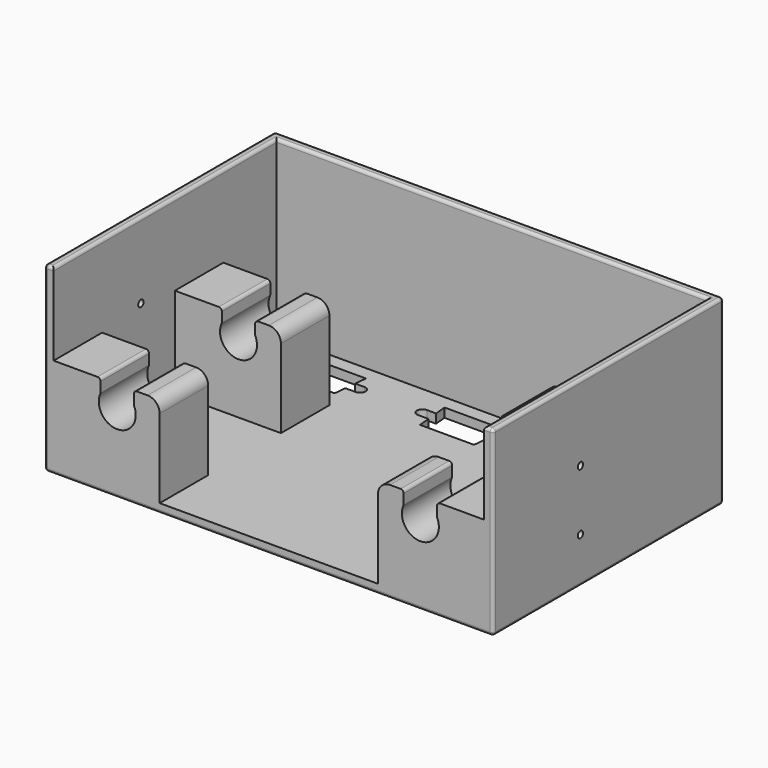
from build123d import *

# Parameters (mm, degrees)
CYLINDER009_R      = 1.1
CYLINDER009_DEPTH  = 150
CYLINDER008_R      = 1.1
CYLINDER008_DEPTH  = 150
BOX011_W           = 25.4
BOX011_H           = 3.6
BOX011_DEPTH       = 10
CYLINDER005_R      = 1.8
CYLINDER005_DEPTH  = 10
CYLINDER004_R      = 1.8
CYLINDER004_DEPTH  = 10
BOX010_W           = 20
BOX010_H           = 11.5
BOX010_DEPTH       = 10
CHAMFER001_1_SIZE2 = 1.1
CHAMFER001_1_SIZE  = 11
CHAMFER001_2_SIZE2 = 1.1
CHAMFER001_2_SIZE  = 11
BOX013_W           = 25.4
BOX013_H           = 3.6
BOX013_DEPTH       = 10
CYLINDER006_R      = 1.8
CYLINDER006_DEPTH  = 10
CYLINDER007_R      = 1.8
CYLINDER007_DEPTH  = 10
BOX012_W           = 20
BOX012_H           = 11.5
BOX012_DEPTH       = 10
CHAMFER002_1_SIZE2 = 1.1
CHAMFER002_1_SIZE  = 11
CHAMFER002_2_SIZE2 = 1.1
CHAMFER002_2_SIZE  = 11
CYLINDER003_R      = 1.8
CYLINDER003_DEPTH  = 10
BOX009_W           = 33.6
BOX009_H           = 3.6
BOX009_DEPTH       = 10
CYLINDER002_R      = 1.8
CYLINDER002_DEPTH  = 10
BOX008_W           = 28
BOX008_H           = 11.5
BOX008_DEPTH       = 10
CHAMFER_1_SIZE2    = 1.2
CHAMFER_1_SIZE     = 11
CHAMFER_2_SIZE2    = 1.2
CHAMFER_2_SIZE     = 11
BOX006_W           = 11
BOX006_H           = 73
BOX006_DEPTH       = 15
BOX007_W           = 11
BOX007_H           = 73
BOX007_DEPTH       = 15
CYLINDER001_R      = 6.1
CYLINDER001_DEPTH  = 80
CYLINDER_R         = 6.1
CYLINDER_DEPTH     = 80
BOX002_W           = 35
BOX002_H           = 20
BOX002_DEPTH       = 30
BOX003_W           = 35
BOX003_H           = 20
BOX003_DEPTH       = 30
BOX004_W           = 35
BOX004_H           = 20
BOX004_DEPTH       = 30
BOX005_W           = 35
BOX005_H           = 20
BOX005_DEPTH       = 30
BOX001_W           = 142
BOX001_H           = 92
BOX001_DEPTH       = 60
BOX_W              = 148
BOX_H              = 95
BOX_DEPTH          = 60
FILLET_R           = 1
FILLET001_R        = 4
FILLET002_R        = 1


with BuildPart() as cylinder009:
    # Cylinder009 → Cylinder009 (new body)
    with BuildSketch(Plane(origin=(-1, 36, 35), x_dir=(0, 0, -1), z_dir=(1, 0, 0))):
        Circle(CYLINDER009_R)
    extrude(amount=CYLINDER009_DEPTH)


with BuildPart() as cylinder008:
    # Cylinder008 → Cylinder008 (new body)
    with BuildSketch(Plane(origin=(-1, 36, 15), x_dir=(0, 0, -1), z_dir=(1, 0, 0))):
        Circle(CYLINDER008_R)
    extrude(amount=CYLINDER008_DEPTH)


with BuildPart() as cube011:
    # Box011 → Box011 (new body)
    with BuildSketch(Plane(origin=(-2.7, 3.95, 0), x_dir=(1, 0, 0), z_dir=(0, 0, 1))):
        with Locations((12.7, 1.8)):
            Rectangle(BOX011_W, BOX011_H)
    extrude(amount=BOX011_DEPTH)


with BuildPart() as cylinder005:
    # Cylinder005 → Cylinder005 (new body)
    with BuildSketch(Plane(origin=(22.7, 5.75, 0), x_dir=(1, 0, 0), z_dir=(0, 0, 1))):
        Circle(CYLINDER005_R)
    extrude(amount=CYLINDER005_DEPTH)


with BuildPart() as cylinder004:
    # Cylinder004 → Cylinder004 (new body)
    with BuildSketch(Plane(origin=(-2.7, 5.75, 0), x_dir=(1, 0, 0), z_dir=(0, 0, 1))):
        Circle(CYLINDER004_R)
    extrude(amount=CYLINDER004_DEPTH)


with BuildPart() as obj1:
    # Box010 → Box010 (new body)
    with BuildSketch(Plane.XY):
        with Locations((10, 5.75)):
            Rectangle(BOX010_W, BOX010_H)
    extrude(amount=BOX010_DEPTH)

    # Chamfer001 1
    chamfer001_1_edges = [obj1.edges().sort_by_distance(p)[0] for p in [
        (20, 0, 5),
    ]]
    chamfer001_1_side = obj1.faces().sort_by_distance((20, 5.75, 5))[0]
    chamfer(chamfer001_1_edges, length=CHAMFER001_1_SIZE, length2=CHAMFER001_1_SIZE2, reference=chamfer001_1_side)

    # Chamfer001 2
    chamfer001_2_edges = [obj1.edges().sort_by_distance(p)[0] for p in [
        (0, 0, 5),
    ]]
    chamfer001_2_side = obj1.faces().sort_by_distance((0, 5.75, 5))[0]
    chamfer(chamfer001_2_edges, length=CHAMFER001_2_SIZE, length2=CHAMFER001_2_SIZE2, reference=chamfer001_2_side)

    # Fusion002: union Cube011, Cylinder005, Cylinder004
    add(cube011.part)
    add(cylinder005.part)
    add(cylinder004.part)


with BuildPart() as obj1_1:
    # Fusion002 placement: moved
    add(obj1.part.moved(Location((16, 76, 0))))


with BuildPart() as cube013:
    # Box013 → Box013 (new body)
    with BuildSketch(Plane(origin=(-2.7, 3.95, 0), x_dir=(1, 0, 0), z_dir=(0, 0, 1))):
        with Locations((12.7, 1.8)):
            Rectangle(BOX013_W, BOX013_H)
    extrude(amount=BOX013_DEPTH)


with BuildPart() as cylinder006:
    # Cylinder006 → Cylinder006 (new body)
    with BuildSketch(Plane(origin=(22.7, 5.75, 0), x_dir=(1, 0, 0), z_dir=(0, 0, 1))):
        Circle(CYLINDER006_R)
    extrude(amount=CYLINDER006_DEPTH)


with BuildPart() as cylinder007:
    # Cylinder007 → Cylinder007 (new body)
    with BuildSketch(Plane(origin=(-2.7, 5.75, 0), x_dir=(1, 0, 0), z_dir=(0, 0, 1))):
        Circle(CYLINDER007_R)
    extrude(amount=CYLINDER007_DEPTH)


with BuildPart() as obj2:
    # Box012 → Box012 (new body)
    with BuildSketch(Plane.XY):
        with Locations((10, 5.75)):
            Rectangle(BOX012_W, BOX012_H)
    extrude(amount=BOX012_DEPTH)

    # Chamfer002 1
    chamfer002_1_edges = [obj2.edges().sort_by_distance(p)[0] for p in [
        (20, 0, 5),
    ]]
    chamfer002_1_side = obj2.faces().sort_by_distance((20, 5.75, 5))[0]
    chamfer(chamfer002_1_edges, length=CHAMFER002_1_SIZE, length2=CHAMFER002_1_SIZE2, reference=chamfer002_1_side)

    # Chamfer002 2
    chamfer002_2_edges = [obj2.edges().sort_by_distance(p)[0] for p in [
        (0, 0, 5),
    ]]
    chamfer002_2_side = obj2.faces().sort_by_distance((0, 5.75, 5))[0]
    chamfer(chamfer002_2_edges, length=CHAMFER002_2_SIZE, length2=CHAMFER002_2_SIZE2, reference=chamfer002_2_side)

    # Fusion003: union Cube013, Cylinder006, Cylinder007
    add(cube013.part)
    add(cylinder006.part)
    add(cylinder007.part)


with BuildPart() as obj2_1:
    # Fusion003 placement: moved
    add(obj2.part.moved(Location((62, 76, 0))))


with BuildPart() as cylinder003:
    # Cylinder003 → Cylinder003 (new body)
    with BuildSketch(Plane(origin=(30.8, 5.75, 0), x_dir=(1, 0, 0), z_dir=(0, 0, 1))):
        Circle(CYLINDER003_R)
    extrude(amount=CYLINDER003_DEPTH)


with BuildPart() as cube009:
    # Box009 → Box009 (new body)
    with BuildSketch(Plane(origin=(-2.8, 3.95, 0), x_dir=(1, 0, 0), z_dir=(0, 0, 1))):
        with Locations((16.8, 1.8)):
            Rectangle(BOX009_W, BOX009_H)
    extrude(amount=BOX009_DEPTH)


with BuildPart() as cylinder002:
    # Cylinder002 → Cylinder002 (new body)
    with BuildSketch(Plane(origin=(-2.8, 5.75, 0), x_dir=(1, 0, 0), z_dir=(0, 0, 1))):
        Circle(CYLINDER002_R)
    extrude(amount=CYLINDER002_DEPTH)


with BuildPart() as obj3:
    # Box008 → Box008 (new body)
    with BuildSketch(Plane.XY):
        with Locations((14, 5.75)):
            Rectangle(BOX008_W, BOX008_H)
    extrude(amount=BOX008_DEPTH)

    # Chamfer 1
    chamfer_1_edges = [obj3.edges().sort_by_distance(p)[0] for p in [
        (28, 0, 5),
    ]]
    chamfer_1_side = obj3.faces().sort_by_distance((28, 5.75, 5))[0]
    chamfer(chamfer_1_edges, length=CHAMFER_1_SIZE, length2=CHAMFER_1_SIZE2, reference=chamfer_1_side)

    # Chamfer 2
    chamfer_2_edges = [obj3.edges().sort_by_distance(p)[0] for p in [
        (0, 0, 5),
    ]]
    chamfer_2_side = obj3.faces().sort_by_distance((0, 5.75, 5))[0]
    chamfer(chamfer_2_edges, length=CHAMFER_2_SIZE, length2=CHAMFER_2_SIZE2, reference=chamfer_2_side)

    # Fusion001: union Cylinder003, Cube009, Cylinder002
    add(cylinder003.part)
    add(cube009.part)
    add(cylinder002.part)


with BuildPart() as obj3_1:
    # Fusion001 placement: moved
    add(obj3.part.moved(Location((103, 76, 0))))


with BuildPart() as cube006:
    # Box006 → Box006 (new body)
    with BuildSketch(Plane(origin=(118.5, 0, 27), x_dir=(1, 0, 0), z_dir=(0, 0, 1))):
        with Locations((5.5, 36.5)):
            Rectangle(BOX006_W, BOX006_H)
    extrude(amount=BOX006_DEPTH)


with BuildPart() as cube007:
    # Box007 → Box007 (new body)
    with BuildSketch(Plane(origin=(18.5, 0, 27), x_dir=(1, 0, 0), z_dir=(0, 0, 1))):
        with Locations((5.5, 36.5)):
            Rectangle(BOX007_W, BOX007_H)
    extrude(amount=BOX007_DEPTH)


with BuildPart() as cylinder001:
    # Cylinder001 → Cylinder001 (new body)
    with BuildSketch(Plane(origin=(124, 73, 26), x_dir=(1, 0, 0), z_dir=(0, -1, 0))):
        Circle(CYLINDER001_R)
    extrude(amount=CYLINDER001_DEPTH)


with BuildPart() as cylinder:
    # Cylinder → Cylinder (new body)
    with BuildSketch(Plane(origin=(24, 73, 26), x_dir=(1, 0, 0), z_dir=(0, -1, 0))):
        Circle(CYLINDER_R)
    extrude(amount=CYLINDER_DEPTH)


with BuildPart() as cube002:
    # Box002 → Box002 (new body)
    with BuildSketch(Plane(origin=(3, 0, 3), x_dir=(1, 0, 0), z_dir=(0, 0, 1))):
        with Locations((17.5, 10)):
            Rectangle(BOX002_W, BOX002_H)
    extrude(amount=BOX002_DEPTH)


with BuildPart() as cube003:
    # Box003 → Box003 (new body)
    with BuildSketch(Plane(origin=(3, 50, 3), x_dir=(1, 0, 0), z_dir=(0, 0, 1))):
        with Locations((17.5, 10)):
            Rectangle(BOX003_W, BOX003_H)
    extrude(amount=BOX003_DEPTH)


with BuildPart() as cube004:
    # Box004 → Box004 (new body)
    with BuildSketch(Plane(origin=(110, 0, 3), x_dir=(1, 0, 0), z_dir=(0, 0, 1))):
        with Locations((17.5, 10)):
            Rectangle(BOX004_W, BOX004_H)
    extrude(amount=BOX004_DEPTH)


with BuildPart() as cube005:
    # Box005 → Box005 (new body)
    with BuildSketch(Plane(origin=(110, 50, 3), x_dir=(1, 0, 0), z_dir=(0, 0, 1))):
        with Locations((17.5, 10)):
            Rectangle(BOX005_W, BOX005_H)
    extrude(amount=BOX005_DEPTH)


with BuildPart() as cube001:
    # Box001 → Box001 (new body)
    with BuildSketch(Plane(origin=(3, 0, 3), x_dir=(1, 0, 0), z_dir=(0, 0, 1))):
        with Locations((71, 46)):
            Rectangle(BOX001_W, BOX001_H)
    extrude(amount=BOX001_DEPTH)


with BuildPart() as fillet002:
    # Box → Box (new body)
    with BuildSketch(Plane.XY):
        with Locations((74, 47.5)):
            Rectangle(BOX_W, BOX_H)
    extrude(amount=BOX_DEPTH)

    # Cut: cut Cube001
    add(cube001.part, mode=Mode.SUBTRACT)

    # Fusion: union Cube002, Cube003, Cube004, Cube005
    add(cube002.part)
    add(cube003.part)
    add(cube004.part)
    add(cube005.part)

    # Cut001: cut Cylinder
    add(cylinder.part, mode=Mode.SUBTRACT)

    # Cut002: cut Cylinder001
    add(cylinder001.part, mode=Mode.SUBTRACT)

    # Cut003: cut Cube007
    add(cube007.part, mode=Mode.SUBTRACT)

    # Cut004: cut Cube006
    add(cube006.part, mode=Mode.SUBTRACT)

    # Fillet
    fillet_edges = [fillet002.edges().sort_by_distance(p)[0] for p in [
        (29.5, 10, 33),
        (18.5, 10, 33),
        (18.5, 60, 33),
        (29.5, 60, 33),
        (129.5, 60, 33),
        (129.5, 10, 33),
        (118.5, 60, 33),
        (118.5, 10, 33),
    ]]
    fillet(fillet_edges, radius=FILLET_R)

    # Fillet001
    fillet001_edges = [fillet002.edges().sort_by_distance(p)[0] for p in [
        (38, 10, 33),
        (38, 60, 33),
        (110, 60, 33),
        (110, 10, 33),
    ]]
    fillet(fillet001_edges, radius=FILLET001_R)

    # Cut005: cut obj3
    add(obj3_1.part, mode=Mode.SUBTRACT)

    # Cut006: cut obj2
    add(obj2_1.part, mode=Mode.SUBTRACT)

    # Cut007: cut obj1
    add(obj1_1.part, mode=Mode.SUBTRACT)

    # Cut008: cut Cylinder008
    add(cylinder008.part, mode=Mode.SUBTRACT)

    # Cut009: cut Cylinder009
    add(cylinder009.part, mode=Mode.SUBTRACT)

    # Fillet002
    fillet002_edges = [fillet002.edges().sort_by_distance(p)[0] for p in [
        (148, 0, 30),
        (146.5, 0, 60),
        (1.5, 0, 60),
        (0, 0, 30),
        (74, 0, 0),
        (148, 47.5, 60),
        (148, 47.5, 0),
        (148, 95, 30),
        (74, 95, 60),
        (145, 46, 60),
        (74, 92, 60),
        (3, 46, 60),
        (0, 47.5, 60),
        (0, 47.5, 0),
        (0, 95, 30),
        (74, 95, 0),
    ]]
    fillet(fillet002_edges, radius=FILLET002_R)


solid = fillet002.part
